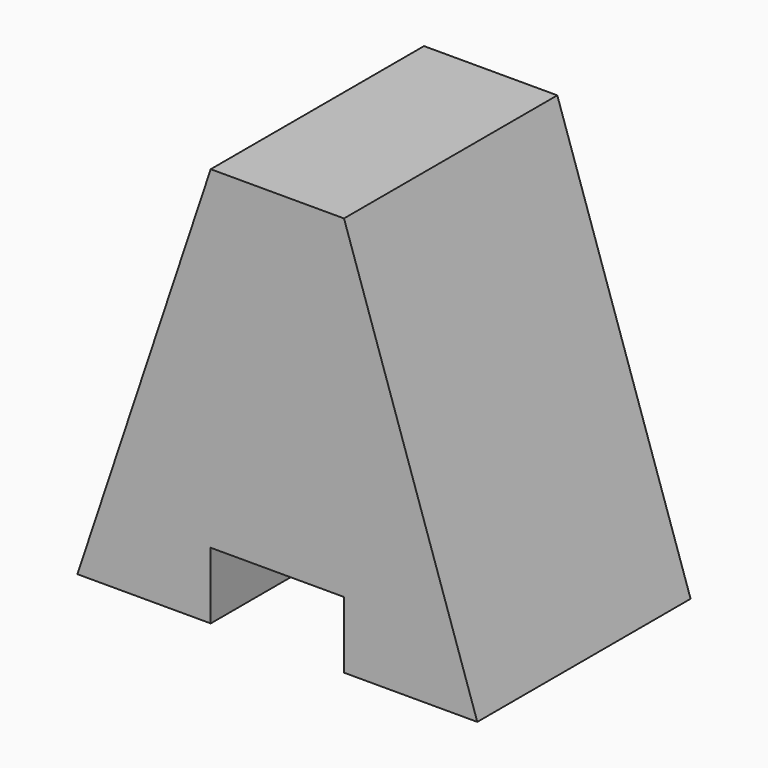
from build123d import *

# Parameters (mm, degrees)
F0_W     = 25.4
F0_H     = 38.1
F1_DEPTH = 38.1
F2_W     = 12.7
F2_H     = 6.35
F3_DEPTH = 25.4
F5_DEPTH = 25.4
F7_DEPTH = 25.4


with BuildPart() as f1:
    # F0 (on Right) → F1 (new body)
    with BuildSketch(Plane.YZ):
        with Locations((12.7, 19.05)):
            Rectangle(F0_W, F0_H)
    extrude(amount=F1_DEPTH)

    # F2 (on Front) → F3 (cut)
    with BuildSketch(Plane.XZ):
        with Locations((19.05, 3.175)):
            Rectangle(F2_W, F2_H)
    extrude(amount=-F3_DEPTH, mode=Mode.SUBTRACT)

    # F4 (on face) → F5 (cut)
    with BuildSketch(Plane.XZ):
        Polygon((38.1, 38.1), (25.4, 38.1), (38.1, 0), align=None)
    extrude(amount=-F5_DEPTH, mode=Mode.SUBTRACT)

    # F6 (on Front) → F7 (cut)
    with BuildSketch(Plane.XZ):
        Polygon((0, 38.1), (0, 0), (12.7, 38.1), align=None)
    extrude(amount=-F7_DEPTH, mode=Mode.SUBTRACT)


solid = f1.part
